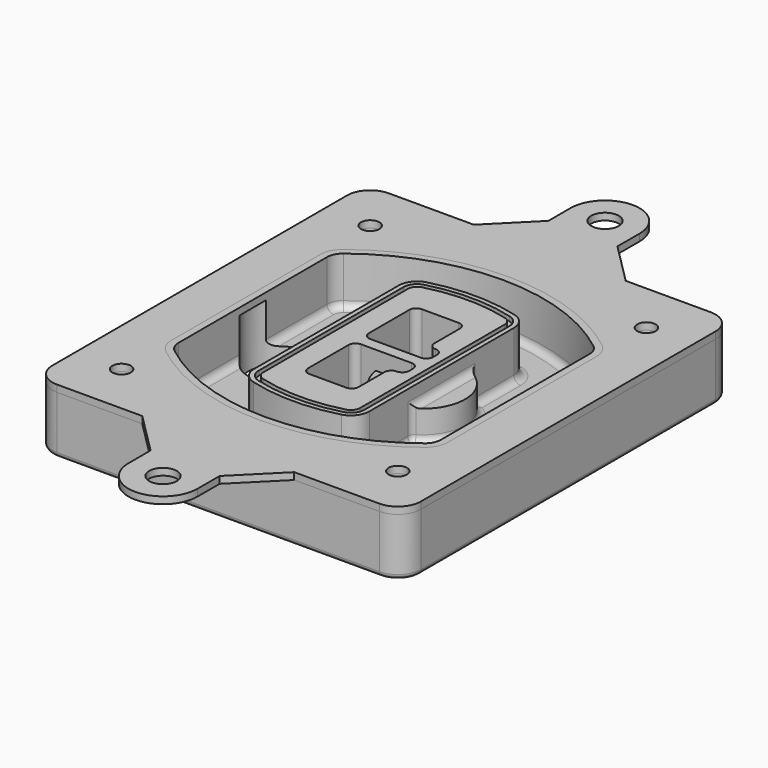
from build123d import *

# Parameters (mm, degrees)
F0_R      = 4
F1_DEPTH  = 25
F2_DEPTH  = 3
F3_DEPTH  = 18
F5_DEPTH  = 21
F6_DEPTH  = 2
F8_DEPTH  = 20
F9_DEPTH  = 16
F10_DEPTH = 25
F7_R      = 6
F7_R_2    = 4
F11_DEPTH = 6
F13_DEPTH = 9
F14_R     = 3
F15_R     = 2
F16_R     = 4
F17_DEPTH = 3


with BuildPart() as f1:
    # F0 (on Top) → F1 (new body)
    with BuildSketch(Plane.XY):
        with BuildLine():
            ThreePointArc((-80, -80), (-77.0710678119, -87.0710678119), (-70, -90))
            Line((-70, -90), (70, -90))
            ThreePointArc((70, -90), (77.0710678119, -87.0710678119), (80, -80))
            Line((80, -80), (80, 80))
            ThreePointArc((80, 80), (77.0710678119, 87.0710678119), (70, 90))
            Line((70, 90), (-70, 90))
            ThreePointArc((-70, 90), (-77.0710678119, 87.0710678119), (-80, 80))
            Line((-80, 80), (-80, -80))
        make_face()
        with Locations((-60, -67.5)):
            Circle(F0_R, mode=Mode.SUBTRACT)
        with Locations((60, -67.5)):
            Circle(F0_R, mode=Mode.SUBTRACT)
        with Locations((-60, 67.5)):
            Circle(F0_R, mode=Mode.SUBTRACT)
        with BuildLine():
            ThreePointArc((-64, 40.2934422872), (-62.5820384798, 46.4328484224), (-58.6153846154, 51.3286200352))
            ThreePointArc((-58.6153846154, 51.3286200352), (0, 71.5), (58.6153846154, 51.3286200352))
            ThreePointArc((58.6153846154, 51.3286200352), (62.5820384798, 46.4328484224), (64, 40.2934422872))
            Line((64, 40.2934422872), (64, -40.2934422872))
            ThreePointArc((64, -40.2934422872), (62.5820384798, -46.4328484224), (58.6153846154, -51.3286200352))
            ThreePointArc((58.6153846154, -51.3286200352), (0, -71.5), (-58.6153846154, -51.3286200352))
            ThreePointArc((-58.6153846154, -51.3286200352), (-62.5820384798, -46.4328484224), (-64, -40.2934422872))
            Line((-64, -40.2934422872), (-64, 40.2934422872))
        make_face(mode=Mode.SUBTRACT)
        with Locations((60, 67.5)):
            Circle(F0_R, mode=Mode.SUBTRACT)
        with BuildLine():
            ThreePointArc((58.6153846154, 51.3286200352), (0, 71.5), (-58.6153846154, 51.3286200352))
            ThreePointArc((-58.6153846154, 51.3286200352), (-62.5820384798, 46.4328484224), (-64, 40.2934422872))
            Line((-64, 40.2934422872), (-64, -40.2934422872))
            ThreePointArc((-64, -40.2934422872), (-62.5820384798, -46.4328484224), (-58.6153846154, -51.3286200352))
            ThreePointArc((-58.6153846154, -51.3286200352), (0, -71.5), (58.6153846154, -51.3286200352))
            ThreePointArc((58.6153846154, -51.3286200352), (62.5820384798, -46.4328484224), (64, -40.2934422872))
            Line((64, -40.2934422872), (64, 40.2934422872))
            ThreePointArc((64, 40.2934422872), (62.5820384798, 46.4328484224), (58.6153846154, 51.3286200352))
        make_face()
        with BuildLine():
            Line((-60, -40.2934422872), (-60, 40.2934422872))
            ThreePointArc((-60, 40.2934422872), (-58.9871703427, 44.6787323838), (-56.1538461538, 48.1757121072))
            ThreePointArc((-56.1538461538, 48.1757121072), (0, 67.5), (56.1538461538, 48.1757121072))
            ThreePointArc((56.1538461538, 48.1757121072), (58.9871703427, 44.6787323838), (60, 40.2934422872))
            Line((60, 40.2934422872), (60, -40.2934422872))
            ThreePointArc((60, -40.2934422872), (58.9871703427, -44.6787323838), (56.1538461538, -48.1757121072))
            ThreePointArc((56.1538461538, -48.1757121072), (0, -67.5), (-56.1538461538, -48.1757121072))
            ThreePointArc((-56.1538461538, -48.1757121072), (-58.9871703427, -44.6787323838), (-60, -40.2934422872))
        make_face(mode=Mode.SUBTRACT)
        with BuildLine():
            ThreePointArc((-56.1538461538, 48.1757121072), (-58.9871703427, 44.6787323838), (-60, 40.2934422872))
            Line((-60, 40.2934422872), (-60, -40.2934422872))
            ThreePointArc((-60, -40.2934422872), (-58.9871703427, -44.6787323838), (-56.1538461538, -48.1757121072))
            ThreePointArc((-56.1538461538, -48.1757121072), (0, -67.5), (56.1538461538, -48.1757121072))
            ThreePointArc((56.1538461538, -48.1757121072), (58.9871703427, -44.6787323838), (60, -40.2934422872))
            Line((60, -40.2934422872), (60, 40.2934422872))
            ThreePointArc((60, 40.2934422872), (58.9871703427, 44.6787323838), (56.1538461538, 48.1757121072))
            ThreePointArc((56.1538461538, 48.1757121072), (0, 67.5), (-56.1538461538, 48.1757121072))
        make_face()
        with BuildLine():
            ThreePointArc((54.3076923077, 45.8110311612), (56.2910192399, 43.3631453548), (57, 40.2934422872))
            Line((57, 40.2934422872), (57, -40.2934422872))
            ThreePointArc((57, -40.2934422872), (56.2910192399, -43.3631453548), (54.3076923077, -45.8110311612))
            ThreePointArc((54.3076923077, -45.8110311612), (0, -64.5), (-54.3076923077, -45.8110311612))
            ThreePointArc((-54.3076923077, -45.8110311612), (-56.2910192399, -43.3631453548), (-57, -40.2934422872))
            Line((-57, -40.2934422872), (-57, 40.2934422872))
            ThreePointArc((-57, 40.2934422872), (-56.2910192399, 43.3631453548), (-54.3076923077, 45.8110311612))
            ThreePointArc((-54.3076923077, 45.8110311612), (0, 64.5), (54.3076923077, 45.8110311612))
        make_face(mode=Mode.SUBTRACT)
        with BuildLine():
            Line((57, -40.2934422872), (57, 40.2934422872))
            ThreePointArc((57, 40.2934422872), (56.2910192399, 43.3631453548), (54.3076923077, 45.8110311612))
            ThreePointArc((54.3076923077, 45.8110311612), (0, 64.5), (-54.3076923077, 45.8110311612))
            ThreePointArc((-54.3076923077, 45.8110311612), (-56.2910192399, 43.3631453548), (-57, 40.2934422872))
            Line((-57, 40.2934422872), (-57, -40.2934422872))
            ThreePointArc((-57, -40.2934422872), (-56.2910192399, -43.3631453548), (-54.3076923077, -45.8110311612))
            ThreePointArc((-54.3076923077, -45.8110311612), (0, -64.5), (54.3076923077, -45.8110311612))
            ThreePointArc((54.3076923077, -45.8110311612), (56.2910192399, -43.3631453548), (57, -40.2934422872))
        make_face()
    extrude(amount=-F1_DEPTH)

    # F0 (on Top) → F2 (join)
    with BuildSketch(Plane.XY):
        with BuildLine():
            ThreePointArc((-56.1538461538, 48.1757121072), (-58.9871703427, 44.6787323838), (-60, 40.2934422872))
            Line((-60, 40.2934422872), (-60, -40.2934422872))
            ThreePointArc((-60, -40.2934422872), (-58.9871703427, -44.6787323838), (-56.1538461538, -48.1757121072))
            ThreePointArc((-56.1538461538, -48.1757121072), (0, -67.5), (56.1538461538, -48.1757121072))
            ThreePointArc((56.1538461538, -48.1757121072), (58.9871703427, -44.6787323838), (60, -40.2934422872))
            Line((60, -40.2934422872), (60, 40.2934422872))
            ThreePointArc((60, 40.2934422872), (58.9871703427, 44.6787323838), (56.1538461538, 48.1757121072))
            ThreePointArc((56.1538461538, 48.1757121072), (0, 67.5), (-56.1538461538, 48.1757121072))
        make_face()
        with BuildLine():
            ThreePointArc((54.3076923077, 45.8110311612), (56.2910192399, 43.3631453548), (57, 40.2934422872))
            Line((57, 40.2934422872), (57, -40.2934422872))
            ThreePointArc((57, -40.2934422872), (56.2910192399, -43.3631453548), (54.3076923077, -45.8110311612))
            ThreePointArc((54.3076923077, -45.8110311612), (0, -64.5), (-54.3076923077, -45.8110311612))
            ThreePointArc((-54.3076923077, -45.8110311612), (-56.2910192399, -43.3631453548), (-57, -40.2934422872))
            Line((-57, -40.2934422872), (-57, 40.2934422872))
            ThreePointArc((-57, 40.2934422872), (-56.2910192399, 43.3631453548), (-54.3076923077, 45.8110311612))
            ThreePointArc((-54.3076923077, 45.8110311612), (0, 64.5), (54.3076923077, 45.8110311612))
        make_face(mode=Mode.SUBTRACT)
    extrude(amount=F2_DEPTH)

    # F0 (on Top) → F3 (cut)
    with BuildSketch(Plane.XY):
        with BuildLine():
            Line((57, -40.2934422872), (57, 40.2934422872))
            ThreePointArc((57, 40.2934422872), (56.2910192399, 43.3631453548), (54.3076923077, 45.8110311612))
            ThreePointArc((54.3076923077, 45.8110311612), (0, 64.5), (-54.3076923077, 45.8110311612))
            ThreePointArc((-54.3076923077, 45.8110311612), (-56.2910192399, 43.3631453548), (-57, 40.2934422872))
            Line((-57, 40.2934422872), (-57, -40.2934422872))
            ThreePointArc((-57, -40.2934422872), (-56.2910192399, -43.3631453548), (-54.3076923077, -45.8110311612))
            ThreePointArc((-54.3076923077, -45.8110311612), (0, -64.5), (54.3076923077, -45.8110311612))
            ThreePointArc((54.3076923077, -45.8110311612), (56.2910192399, -43.3631453548), (57, -40.2934422872))
        make_face()
    extrude(amount=-F3_DEPTH, mode=Mode.SUBTRACT)

    # F4 (on face) → F5 (join, through all)
    with BuildSketch(Plane.XY.offset(3)):
        with BuildLine():
            ThreePointArc((-25, -39.2465276821), (-23.3511545998, -44.1109737193), (-19.0842911877, -46.9702398883))
            ThreePointArc((-19.0842911877, -46.9702398883), (0, -49.5), (19.0842911877, -46.9702398883))
            ThreePointArc((19.0842911877, -46.9702398883), (23.3511545998, -44.1109737193), (25, -39.2465276821))
            Line((25, -39.2465276821), (25, 39.2465276821))
            ThreePointArc((25, 39.2465276821), (23.3511545998, 44.1109737193), (19.0842911877, 46.9702398883))
            ThreePointArc((19.0842911877, 46.9702398883), (0, 49.5), (-19.0842911877, 46.9702398883))
            ThreePointArc((-19.0842911877, 46.9702398883), (-23.3511545998, 44.1109737193), (-25, 39.2465276821))
            Line((-25, 39.2465276821), (-25, -39.2465276821))
        make_face()
        with BuildLine():
            ThreePointArc((18.5632183908, 45.0393118368), (21.7633659499, 42.89486221), (23, 39.2465276821))
            Line((23, 39.2465276821), (23, -39.2465276821))
            ThreePointArc((23, -39.2465276821), (21.7633659499, -42.89486221), (18.5632183908, -45.0393118368))
            ThreePointArc((18.5632183908, -45.0393118368), (0, -47.5), (-18.5632183908, -45.0393118368))
            ThreePointArc((-18.5632183908, -45.0393118368), (-21.7633659499, -42.89486221), (-23, -39.2465276821))
            Line((-23, -39.2465276821), (-23, 39.2465276821))
            ThreePointArc((-23, 39.2465276821), (-21.7633659499, 42.89486221), (-18.5632183908, 45.0393118368))
            ThreePointArc((-18.5632183908, 45.0393118368), (0, 47.5), (18.5632183908, 45.0393118368))
        make_face(mode=Mode.SUBTRACT)
        with BuildLine():
            Line((23, -39.2465276821), (23, 39.2465276821))
            ThreePointArc((23, 39.2465276821), (21.7633659499, 42.89486221), (18.5632183908, 45.0393118368))
            ThreePointArc((18.5632183908, 45.0393118368), (0, 47.5), (-18.5632183908, 45.0393118368))
            ThreePointArc((-18.5632183908, 45.0393118368), (-21.7633659499, 42.89486221), (-23, 39.2465276821))
            Line((-23, 39.2465276821), (-23, -39.2465276821))
            ThreePointArc((-23, -39.2465276821), (-21.7633659499, -42.89486221), (-18.5632183908, -45.0393118368))
            ThreePointArc((-18.5632183908, -45.0393118368), (0, -47.5), (18.5632183908, -45.0393118368))
            ThreePointArc((18.5632183908, -45.0393118368), (21.7633659499, -42.89486221), (23, -39.2465276821))
        make_face()
        with BuildLine():
            ThreePointArc((18.0421455939, 43.1083837852), (20.1755772999, 41.6787507007), (21, 39.2465276821))
            Line((21, 39.2465276821), (21, -39.2465276821))
            ThreePointArc((21, -39.2465276821), (20.1755772999, -41.6787507007), (18.0421455939, -43.1083837852))
            ThreePointArc((18.0421455939, -43.1083837852), (0, -45.5), (-18.0421455939, -43.1083837852))
            ThreePointArc((-18.0421455939, -43.1083837852), (-20.1755772999, -41.6787507007), (-21, -39.2465276821))
            Line((-21, -39.2465276821), (-21, 39.2465276821))
            ThreePointArc((-21, 39.2465276821), (-20.1755772999, 41.6787507007), (-18.0421455939, 43.1083837852))
            ThreePointArc((-18.0421455939, 43.1083837852), (0, 45.5), (18.0421455939, 43.1083837852))
        make_face(mode=Mode.SUBTRACT)
        with BuildLine():
            Line((21, -39.2465276821), (21, 39.2465276821))
            ThreePointArc((21, 39.2465276821), (20.1755772999, 41.6787507007), (18.0421455939, 43.1083837852))
            ThreePointArc((18.0421455939, 43.1083837852), (0, 45.5), (-18.0421455939, 43.1083837852))
            ThreePointArc((-18.0421455939, 43.1083837852), (-20.1755772999, 41.6787507007), (-21, 39.2465276821))
            Line((-21, 39.2465276821), (-21, -39.2465276821))
            ThreePointArc((-21, -39.2465276821), (-20.1755772999, -41.6787507007), (-18.0421455939, -43.1083837852))
            ThreePointArc((-18.0421455939, -43.1083837852), (0, -45.5), (18.0421455939, -43.1083837852))
            ThreePointArc((18.0421455939, -43.1083837852), (20.1755772999, -41.6787507007), (21, -39.2465276821))
        make_face()
        with BuildLine():
            Line((-8, -2.5), (14, -2.5))
            ThreePointArc((14, -2.5), (16.1213203436, -3.3786796564), (17, -5.5))
            Line((17, -5.5), (17, -7.5))
            ThreePointArc((17, -7.5), (16.1213203436, -9.6213203436), (14, -10.5))
            ThreePointArc((14, -10.5), (11.8786796564, -11.3786796564), (11, -13.5))
            Line((11, -13.5), (11, -27.5))
            ThreePointArc((11, -27.5), (10.1213203436, -29.6213203436), (8, -30.5))
            Line((8, -30.5), (-8, -30.5))
            ThreePointArc((-8, -30.5), (-10.1213203436, -29.6213203436), (-11, -27.5))
            Line((-11, -27.5), (-11, -5.5))
            ThreePointArc((-11, -5.5), (-10.1213203436, -3.3786796564), (-8, -2.5))
        make_face(mode=Mode.SUBTRACT)
        with BuildLine():
            ThreePointArc((-8, 2.5), (-10.1213203436, 3.3786796564), (-11, 5.5))
            Line((-11, 5.5), (-11, 27.5))
            ThreePointArc((-11, 27.5), (-10.1213203436, 29.6213203436), (-8, 30.5))
            Line((-8, 30.5), (8, 30.5))
            ThreePointArc((8, 30.5), (10.1213203436, 29.6213203436), (11, 27.5))
            Line((11, 27.5), (11, 13.5))
            ThreePointArc((11, 13.5), (11.8786796564, 11.3786796564), (14, 10.5))
            ThreePointArc((14, 10.5), (16.1213203436, 9.6213203436), (17, 7.5))
            Line((17, 7.5), (17, 5.5))
            ThreePointArc((17, 5.5), (16.1213203436, 3.3786796564), (14, 2.5))
            Line((14, 2.5), (-8, 2.5))
        make_face(mode=Mode.SUBTRACT)
    extrude(amount=-F5_DEPTH)

    # F4 (on face) → F6 (cut)
    with BuildSketch(Plane.XY.offset(3)):
        with BuildLine():
            Line((23, -39.2465276821), (23, 39.2465276821))
            ThreePointArc((23, 39.2465276821), (21.7633659499, 42.89486221), (18.5632183908, 45.0393118368))
            ThreePointArc((18.5632183908, 45.0393118368), (0, 47.5), (-18.5632183908, 45.0393118368))
            ThreePointArc((-18.5632183908, 45.0393118368), (-21.7633659499, 42.89486221), (-23, 39.2465276821))
            Line((-23, 39.2465276821), (-23, -39.2465276821))
            ThreePointArc((-23, -39.2465276821), (-21.7633659499, -42.89486221), (-18.5632183908, -45.0393118368))
            ThreePointArc((-18.5632183908, -45.0393118368), (0, -47.5), (18.5632183908, -45.0393118368))
            ThreePointArc((18.5632183908, -45.0393118368), (21.7633659499, -42.89486221), (23, -39.2465276821))
        make_face()
        with BuildLine():
            ThreePointArc((18.0421455939, 43.1083837852), (20.1755772999, 41.6787507007), (21, 39.2465276821))
            Line((21, 39.2465276821), (21, -39.2465276821))
            ThreePointArc((21, -39.2465276821), (20.1755772999, -41.6787507007), (18.0421455939, -43.1083837852))
            ThreePointArc((18.0421455939, -43.1083837852), (0, -45.5), (-18.0421455939, -43.1083837852))
            ThreePointArc((-18.0421455939, -43.1083837852), (-20.1755772999, -41.6787507007), (-21, -39.2465276821))
            Line((-21, -39.2465276821), (-21, 39.2465276821))
            ThreePointArc((-21, 39.2465276821), (-20.1755772999, 41.6787507007), (-18.0421455939, 43.1083837852))
            ThreePointArc((-18.0421455939, 43.1083837852), (0, 45.5), (18.0421455939, 43.1083837852))
        make_face(mode=Mode.SUBTRACT)
    extrude(amount=-F6_DEPTH, mode=Mode.SUBTRACT)

    # F7 (on face) → F8 (join)
    with BuildSketch(Plane(origin=(0, 0, -25), x_dir=(1, 0, 0), z_dir=(0, 0, -1))):
        with BuildLine():
            ThreePointArc((3.28842436, 0), (16.7567035675, 13.4682792075), (30.224982775, 0))
            Line((30.224982775, 0), (35.224982775, 0))
            ThreePointArc((35.224982775, 0), (16.7567035675, 18.4682792075), (-1.71157564, 0))
            Line((-1.71157564, 0), (3.28842436, 0))
        make_face()
        with BuildLine():
            Line((3.28842436, 0), (30.224982775, 0))
            ThreePointArc((30.224982775, 0), (16.7567035675, 13.4682792075), (3.28842436, 0))
        make_face()
        with BuildLine():
            ThreePointArc((3.28842436, 0), (16.7567035675, -13.4682792075), (30.224982775, 0))
            Line((30.224982775, 0), (3.28842436, 0))
        make_face()
        with BuildLine():
            Line((35.224982775, 0), (30.224982775, 0))
            ThreePointArc((30.224982775, 0), (16.7567035675, -13.4682792075), (3.28842436, 0))
            Line((3.28842436, 0), (-1.71157564, 0))
            ThreePointArc((-1.71157564, 0), (16.7567035675, -18.4682792075), (35.224982775, 0))
        make_face()
    extrude(amount=-F8_DEPTH)

    # F7 (on face) → F9 (cut)
    with BuildSketch(Plane(origin=(0, 0, -25), x_dir=(1, 0, 0), z_dir=(0, 0, -1))):
        with BuildLine():
            Line((3.28842436, 0), (30.224982775, 0))
            ThreePointArc((30.224982775, 0), (16.7567035675, 13.4682792075), (3.28842436, 0))
        make_face()
        with BuildLine():
            ThreePointArc((3.28842436, 0), (16.7567035675, -13.4682792075), (30.224982775, 0))
            Line((30.224982775, 0), (3.28842436, 0))
        make_face()
    extrude(amount=-F9_DEPTH, mode=Mode.SUBTRACT)

    # F7 (on face) → F10 (cut)
    with BuildSketch(Plane(origin=(0, 0, -25), x_dir=(1, 0, 0), z_dir=(0, 0, -1))):
        with BuildLine():
            Line((-59.0318229325, 0), (-32.0952645175, 0))
            ThreePointArc((-32.0952645175, 0), (-45.563543725, 13.4682792075), (-59.0318229325, 0))
        make_face()
        with BuildLine():
            ThreePointArc((-59.0318229325, 0), (-45.563543725, -13.4682792075), (-32.0952645175, 0))
            Line((-32.0952645175, 0), (-59.0318229325, 0))
        make_face()
    extrude(amount=-F10_DEPTH, mode=Mode.SUBTRACT)

    # F7 (on face) → F11 (cut)
    with BuildSketch(Plane(origin=(0, 0, -25), x_dir=(1, 0, 0), z_dir=(0, 0, -1))):
        with Locations((60, -67.5)):
            Circle(F7_R)
        with Locations((60, -67.5)):
            Circle(F7_R_2, mode=Mode.SUBTRACT)
        with Locations((60, -67.5)):
            Circle(F7_R)
        with Locations((60, -67.5)):
            Circle(F7_R_2, mode=Mode.SUBTRACT)
        with Locations((-60, -67.5)):
            Circle(F7_R)
        with Locations((-60, -67.5)):
            Circle(F7_R_2, mode=Mode.SUBTRACT)
        with Locations((-60, -67.5)):
            Circle(F7_R)
        with Locations((-60, -67.5)):
            Circle(F7_R_2, mode=Mode.SUBTRACT)
        with Locations((-60, 67.5)):
            Circle(F7_R)
        with Locations((-60, 67.5)):
            Circle(F7_R_2, mode=Mode.SUBTRACT)
        with Locations((-60, 67.5)):
            Circle(F7_R)
        with Locations((-60, 67.5)):
            Circle(F7_R_2, mode=Mode.SUBTRACT)
        with Locations((60, 67.5)):
            Circle(F7_R)
        with Locations((60, 67.5)):
            Circle(F7_R_2, mode=Mode.SUBTRACT)
        with Locations((60, 67.5)):
            Circle(F7_R)
        with Locations((60, 67.5)):
            Circle(F7_R_2, mode=Mode.SUBTRACT)
    extrude(amount=-F11_DEPTH, mode=Mode.SUBTRACT)

    # F12 (on face) → F13 (cut, through all)
    with BuildSketch(Plane(origin=(0, 0, -9), x_dir=(1, 0, 0), z_dir=(0, 0, -1))):
        with BuildLine():
            Line((11, 13.5), (11, 17.5481537753))
            ThreePointArc((11, 17.5481537753), (2.5696536419, 11.8239143813), (-1.5415842455, 2.5))
            Line((-1.5415842455, 2.5), (3.5224848595, 2.5))
            ThreePointArc((3.5224848595, 2.5), (6.1857188154, 8.3455872281), (11.2536447004, 12.2927168648))
            ThreePointArc((11.2536447004, 12.2927168648), (11.0640958889, 12.8831798879), (11, 13.5))
        make_face()
        with BuildLine():
            ThreePointArc((11.2536447004, -12.2927168648), (6.1857188154, -8.3455872281), (3.5224848595, -2.5))
            Line((3.5224848595, -2.5), (-1.5415842455, -2.5))
            ThreePointArc((-1.5415842455, -2.5), (2.5696536419, -11.8239143813), (11, -17.5481537753))
            Line((11, -17.5481537753), (11, -13.5))
            ThreePointArc((11, -13.5), (11.0640958889, -12.8831798879), (11.2536447004, -12.2927168648))
        make_face()
        with BuildLine():
            ThreePointArc((11.2536447004, 12.2927168648), (6.1857188154, 8.3455872281), (3.5224848595, 2.5))
            Line((3.5224848595, 2.5), (14, 2.5))
            ThreePointArc((14, 2.5), (16.1213203436, 3.3786796564), (17, 5.5))
            Line((17, 5.5), (17, 7.5))
            ThreePointArc((17, 7.5), (16.1213203436, 9.6213203436), (14, 10.5))
            ThreePointArc((14, 10.5), (12.3601599782, 10.9878446101), (11.2536447004, 12.2927168648))
        make_face()
        with BuildLine():
            Line((14, -2.5), (3.5224848595, -2.5))
            ThreePointArc((3.5224848595, -2.5), (6.1857188154, -8.3455872281), (11.2536447004, -12.2927168648))
            ThreePointArc((11.2536447004, -12.2927168648), (12.3601599782, -10.9878446101), (14, -10.5))
            ThreePointArc((14, -10.5), (16.1213203436, -9.6213203436), (17, -7.5))
            Line((17, -7.5), (17, -5.5))
            ThreePointArc((17, -5.5), (16.1213203436, -3.3786796564), (14, -2.5))
        make_face()
    extrude(amount=F13_DEPTH, mode=Mode.SUBTRACT)

    # F14
    f14_edges = [f1.edges().sort_by_distance(p)[0] for p in [
        (-57, -23.703476, -18),
        (-57, 23.703476, -18),
        (25, 0, -5),
        (25, 16.526506, -11.5),
        (25, -16.526506, -11.5),
        (25, -27.886517, -18),
        (35.224983, 0, -18),
    ]]
    fillet(f14_edges, radius=F14_R)

    # F15
    f15_edges = [f1.edges().sort_by_distance(p)[0] for p in [
        (0, -90, -25),
    ]]
    fillet(f15_edges, radius=F15_R)


with BuildPart() as f17:
    # F16 (on face) → F17 (new body, through all)
    with BuildSketch(Plane.XY):
        with BuildLine():
            Line((-33, 90), (33, 90))
            Line((33, 90), (15, 108))
            Line((15, 108), (15, 120))
            Line((15, 120), (6, 120))
            ThreePointArc((6, 120), (0, 114), (-6, 120))
            Line((-6, 120), (-15, 120))
            Line((-15, 120), (-15, 108))
            Line((-15, 108), (-33, 90))
        make_face()
        with BuildLine():
            Line((6, 120), (15, 120))
            ThreePointArc((15, 120), (0, 135), (-15, 120))
            Line((-15, 120), (-6, 120))
            ThreePointArc((-6, 120), (0, 126), (6, 120))
        make_face()
        with BuildLine():
            ThreePointArc((-15, -120), (0, -135), (15, -120))
            Line((15, -120), (6, -120))
            ThreePointArc((6, -120), (0, -126), (-6, -120))
            Line((-6, -120), (-15, -120))
        make_face()
        with BuildLine():
            Line((15, -108), (33, -90))
            Line((33, -90), (-33, -90))
            Line((-33, -90), (-15, -108))
            Line((-15, -108), (-15, -120))
            Line((-15, -120), (-6, -120))
            ThreePointArc((-6, -120), (0, -114), (6, -120))
            Line((6, -120), (15, -120))
            Line((15, -120), (15, -108))
        make_face()
        with BuildLine():
            ThreePointArc((80, 80), (77.0710678119, 87.0710678119), (70, 90))
            Line((70, 90), (33, 90))
            Line((33, 90), (-33, 90))
            Line((-33, 90), (-70, 90))
            ThreePointArc((-70, 90), (-77.0710678119, 87.0710678119), (-80, 80))
            Line((-80, 80), (-80, -80))
            ThreePointArc((-80, -80), (-77.0710678119, -87.0710678119), (-70, -90))
            Line((-70, -90), (-33, -90))
            Line((-33, -90), (33, -90))
            Line((33, -90), (70, -90))
            ThreePointArc((70, -90), (77.0710678119, -87.0710678119), (80, -80))
            Line((80, -80), (80, 80))
        make_face()
        with Locations((-60, -67.5)):
            Circle(F16_R, mode=Mode.SUBTRACT)
        with Locations((60, -67.5)):
            Circle(F16_R, mode=Mode.SUBTRACT)
        with Locations((-60, 67.5)):
            Circle(F16_R, mode=Mode.SUBTRACT)
        with BuildLine():
            Line((60, 40.2934422872), (60, -40.2934422872))
            ThreePointArc((60, -40.2934422872), (58.9871703427, -44.6787323838), (56.1538461538, -48.1757121072))
            ThreePointArc((56.1538461538, -48.1757121072), (0, -67.5), (-56.1538461538, -48.1757121072))
            ThreePointArc((-56.1538461538, -48.1757121072), (-58.9871703427, -44.6787323838), (-60, -40.2934422872))
            Line((-60, -40.2934422872), (-60, 40.2934422872))
            ThreePointArc((-60, 40.2934422872), (-58.9871703427, 44.6787323838), (-56.1538461538, 48.1757121072))
            ThreePointArc((-56.1538461538, 48.1757121072), (0, 67.5), (56.1538461538, 48.1757121072))
            ThreePointArc((56.1538461538, 48.1757121072), (58.9871703427, 44.6787323838), (60, 40.2934422872))
        make_face(mode=Mode.SUBTRACT)
        with Locations((60, 67.5)):
            Circle(F16_R, mode=Mode.SUBTRACT)
    extrude(amount=F17_DEPTH)


solid = Compound([f1.part, f17.part])
